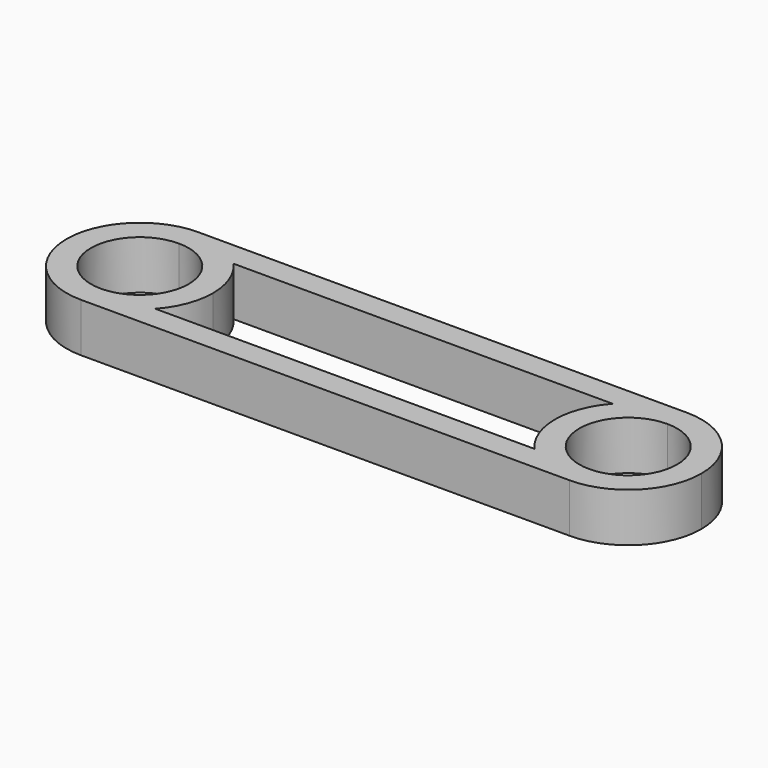
from build123d import *

# Parameters (mm, degrees)
F1_DEPTH = 25.4


with BuildPart() as f1:
    # F0 (on Top) → F1 (new body)
    with BuildSketch(Plane.XY):
        with BuildLine():
            ThreePointArc((0, 25.4), (17.960512, 17.960512), (25.4, 0))
            ThreePointArc((25.4, 0), (17.960512, -17.960512), (0, -25.4))
            Line((0, -25.4), (28.398063, -25.4))
            ThreePointArc((28.398063, -25.4), (35.591967, -13.594922), (38.1, 0))
            ThreePointArc((38.1, 0), (35.591967, 13.594922), (28.398063, 25.4))
            Line((28.398063, 25.4), (0, 25.4))
        make_face()
        with BuildLine():
            ThreePointArc((0, 38.1), (15.55426, 34.780382), (28.398063, 25.4))
            Line((28.398063, 25.4), (225.601937, 25.4))
            ThreePointArc((225.601937, 25.4), (238.44574, 34.780382), (254, 38.1))
            Line((254, 38.1), (0, 38.1))
        make_face()
        with BuildLine():
            Line((254, 25.4), (225.601937, 25.4))
            ThreePointArc((225.601937, 25.4), (215.9, 0), (225.601937, -25.4))
            Line((225.601937, -25.4), (254, -25.4))
            ThreePointArc((254, -25.4), (228.6, 0), (254, 25.4))
        make_face()
        with BuildLine():
            Line((225.601937, -25.4), (28.398063, -25.4))
            ThreePointArc((28.398063, -25.4), (15.55426, -34.780382), (0, -38.1))
            Line((0, -38.1), (254, -38.1))
            ThreePointArc((254, -38.1), (238.44574, -34.780382), (225.601937, -25.4))
        make_face()
        with BuildLine():
            ThreePointArc((0, -25.4), (-25.4, 0), (0, 25.4))
            Line((0, 25.4), (28.398063, 25.4))
            ThreePointArc((28.398063, 25.4), (15.55426, 34.780382), (0, 38.1))
            ThreePointArc((0, 38.1), (-38.1, 0), (0, -38.1))
            ThreePointArc((0, -38.1), (15.55426, -34.780382), (28.398063, -25.4))
            Line((28.398063, -25.4), (0, -25.4))
        make_face()
        with BuildLine():
            ThreePointArc((254, 38.1), (238.44574, 34.780382), (225.601937, 25.4))
            Line((225.601937, 25.4), (254, 25.4))
            ThreePointArc((254, 25.4), (271.960512, 17.960512), (279.4, 0))
            ThreePointArc((279.4, 0), (271.960512, -17.960512), (254, -25.4))
            Line((254, -25.4), (225.601937, -25.4))
            ThreePointArc((225.601937, -25.4), (238.44574, -34.780382), (254, -38.1))
            ThreePointArc((254, -38.1), (280.940768, -26.940768), (292.1, 0))
            ThreePointArc((292.1, 0), (280.940768, 26.940768), (254, 38.1))
        make_face()
    extrude(amount=F1_DEPTH)


solid = f1.part
